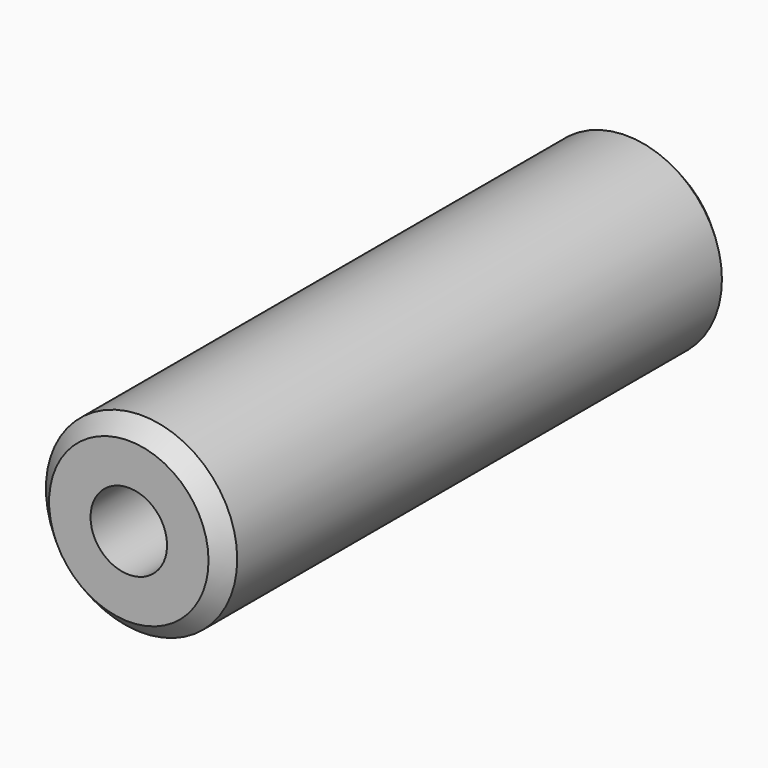
from build123d import *

# Parameters (mm, degrees)
F0_R     = 3
F1_DEPTH = 20
F2_D     = 2.4
F3_SIZE  = 0.5


with BuildPart() as f1:
    # F0 (on Front) → F1 (new body)
    with BuildSketch(Plane.XZ):
        Circle(F0_R)
    extrude(amount=-F1_DEPTH)

    # F2 (through all)
    with Locations(Plane.XZ):
        with Locations((0, 0)):
            Hole(F2_D / 2)

    # F3
    f3_edges = [f1.edges().sort_by_distance(p)[0] for p in [
        (-3, 0, 0),
        (-3, 20, 0),
    ]]
    chamfer(f3_edges, length=F3_SIZE)


solid = f1.part
